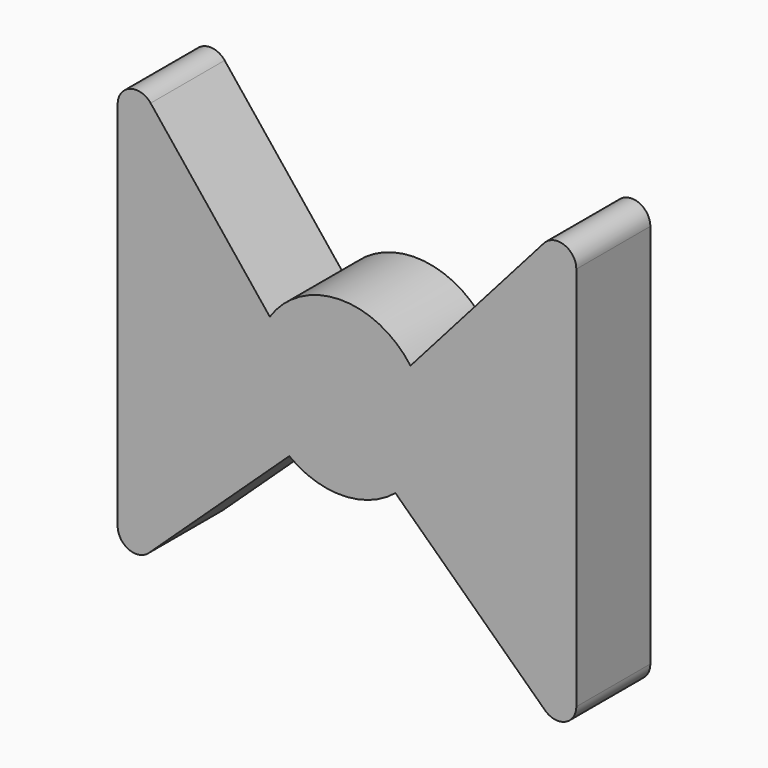
from build123d import *

# Parameters (mm, degrees)
F1_DEPTH = 25.4
F2_R     = 5.08


with BuildPart() as f1:
    # F0 (on Front) → F1 (new body)
    with BuildSketch(Plane.XZ):
        with BuildLine():
            ThreePointArc((14.920454, -18.24462), (21.297213, -10.095287), (23.568753, 0))
            ThreePointArc((23.568753, 0), (22.411283, 7.295239), (19.052561, 13.873934))
            ThreePointArc((19.052561, 13.873934), (-0.447857, 23.564497), (-19.565976, 13.139966))
            ThreePointArc((-19.565976, 13.139966), (-23.246061, -3.886743), (-14.22725, -18.790196))
            ThreePointArc((-14.22725, -18.790196), (0.441074, -23.564625), (14.920454, -18.24462))
        make_face()
        with BuildLine():
            ThreePointArc((19.052561, 13.873934), (22.411283, 7.295239), (23.568753, 0))
            ThreePointArc((23.568753, 0), (21.297213, -10.095287), (14.920454, -18.24462))
            Line((14.920454, -18.24462), (64.565912, -65.572284))
            Line((64.565912, -65.572284), (64.565912, 65.460704))
            Line((64.565912, 65.460704), (19.052561, 13.873934))
        make_face()
        with BuildLine():
            ThreePointArc((-14.22725, -18.790196), (-23.246061, -3.886743), (-19.565976, 13.139966))
            Line((-19.565976, 13.139966), (-61.325632, 65.460704))
            Line((-61.325632, 65.460704), (-61.325632, -62.710851))
            Line((-61.325632, -62.710851), (-14.22725, -18.790196))
        make_face()
    extrude(amount=F1_DEPTH)

    # F2
    f2_edges = [f1.edges().sort_by_distance(p)[0] for p in [
        (-61.325632, -12.7, 65.460704),
        (64.565912, -12.7, 65.460704),
        (64.565912, -12.7, -65.572284),
        (-61.325632, -12.7, -62.710851),
    ]]
    fillet(f2_edges, radius=F2_R)


solid = f1.part
